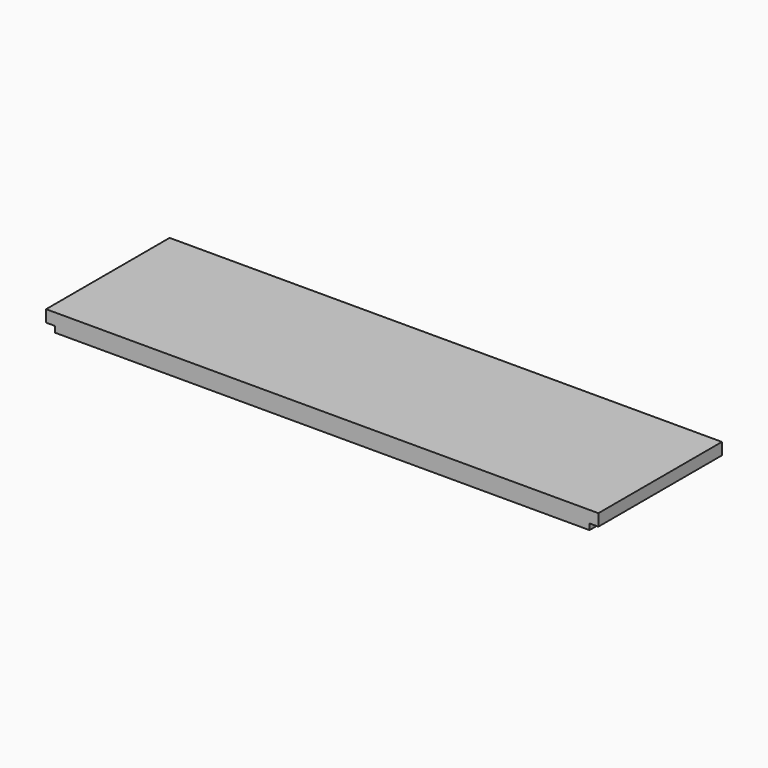
from build123d import *

# Parameters (mm, degrees)
F0_W     = 165.1
F0_H     = 19.05
F1_DEPTH = 590.55
F2_W     = 165.1
F2_H     = 6.35
F3_DEPTH = 9.525
F4_W     = 165.1
F4_H     = 6.35
F5_DEPTH = 9.525


with BuildPart() as f1:
    # F0 (on Right) → F1 (new body)
    with BuildSketch(Plane.YZ):
        with Locations((82.55, 9.525)):
            Rectangle(F0_W, F0_H)
    extrude(amount=F1_DEPTH)

    # F2 (on face) → F3 (cut)
    with BuildSketch(Plane.YZ.offset(590.55)):
        with Locations((82.55, 3.175)):
            Rectangle(F2_W, F2_H)
    extrude(amount=-F3_DEPTH, mode=Mode.SUBTRACT)

    # F4 (on face) → F5 (cut)
    with BuildSketch(Plane(origin=(0, 0, 0), x_dir=(0, -1, 0), z_dir=(-1, 0, 0))):
        with Locations((-82.55, 3.175)):
            Rectangle(F4_W, F4_H)
    extrude(amount=-F5_DEPTH, mode=Mode.SUBTRACT)


solid = f1.part
